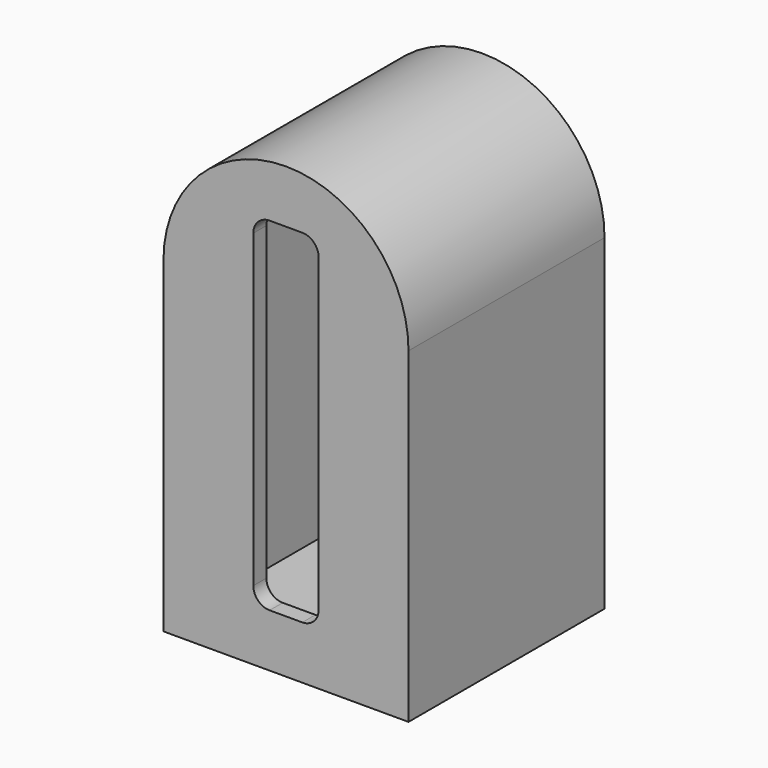
from build123d import *

# Parameters (mm, degrees)
F0_W     = 38.1
F0_H     = 50.8
F1_DEPTH = 38.1
F2_T     = -2.54
F4_DEPTH = 25.4


with BuildPart() as f1:
    # F0 (on Front) → F1 (new body)
    with BuildSketch(Plane.XZ):
        with Locations((-47.1864644898, 25.4)):
            Rectangle(F0_W, F0_H)
        with BuildLine():
            ThreePointArc((-28.1364644898, 50.8), (-47.1864644898, 69.85), (-66.2364644898, 50.8))
            Line((-66.2364644898, 50.8), (-28.1364644898, 50.8))
        make_face()
    extrude(amount=F1_DEPTH)

    # F2 (hollow: no face is removed)
    offset(amount=F2_T, mode=Mode.SUBTRACT)

    # F3 (on face) → F4 (cut)
    with BuildSketch(Plane.XZ.offset(38.1)):
        with BuildLine():
            ThreePointArc((-42.1064644898, 59.055), (-42.8504132656, 60.8510512242), (-44.6464644898, 61.595))
            Line((-44.6464644898, 61.595), (-49.7264644898, 61.595))
            ThreePointArc((-49.7264644898, 61.595), (-51.522515714, 60.8510512242), (-52.2664644898, 59.055))
            Line((-52.2664644898, 59.055), (-52.2664644898, 10.795))
            ThreePointArc((-52.2664644898, 10.795), (-51.522515714, 8.9989487758), (-49.7264644898, 8.255))
            Line((-49.7264644898, 8.255), (-44.6464644898, 8.255))
            ThreePointArc((-44.6464644898, 8.255), (-42.8504132656, 8.9989487758), (-42.1064644898, 10.795))
            Line((-42.1064644898, 10.795), (-42.1064644898, 59.055))
        make_face()
    extrude(amount=-F4_DEPTH, mode=Mode.SUBTRACT)


solid = f1.part
